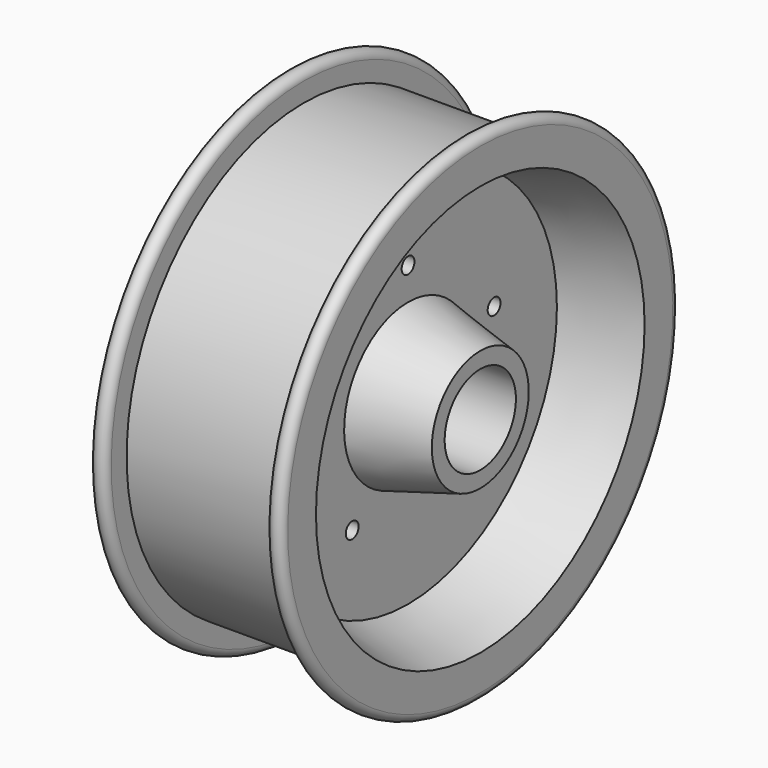
from build123d import *

# Parameters (mm, degrees)
F3_D = 6.35
F4_D = 6.35
F5_D = 6.35
F6_D = 6.35
F7_D = 6.35


with BuildPart() as f1:
    # F0 (on Front) → F1 (revolve)
    with BuildSketch(Plane.XZ):
        with BuildLine():
            Line((9.525, -11.215337), (9.525, 30.773766))
            Line((9.525, 30.773766), (38.1, 38.430415))
            Line((38.1, 38.430415), (38.1, 52.400415))
            ThreePointArc((38.1, 52.400415), (34.925, 55.575415), (31.75, 52.400415))
            Line((31.75, 52.400415), (31.75, 44.780415))
            Line((31.75, 44.780415), (-31.75, 44.780415))
            Line((-31.75, 44.780415), (-31.75, 52.400415))
            ThreePointArc((-31.75, 52.400415), (-34.925, 55.575415), (-38.1, 52.400415))
            Line((-38.1, 52.400415), (-38.1, 38.430415))
            Line((-38.1, 38.430415), (-9.525, 30.773766))
            Line((-9.525, 30.773766), (-9.525, -11.215337))
            Line((-9.525, -11.215337), (-38.1, -18.871985))
            Line((-38.1, -18.871985), (-38.1, -25.221985))
            Line((-38.1, -25.221985), (0, -25.221985))
            Line((0, -25.221985), (38.1, -25.221985))
            Line((38.1, -25.221985), (38.1, -18.871985))
            Line((38.1, -18.871985), (9.525, -11.215337))
        make_face()
    revolve(axis=Axis((44.160847, 0, -42.849585), (1, 0, 0)))

    # F3 (through all)
    with Locations(Plane.YZ.offset(9.525)):
        with Locations((-42.560316, -30.02687)):
            Hole(F3_D / 2)

    # F4 (through all)
    with Locations(Plane.YZ.offset(9.525)):
        with Locations((0, 1.600415)):
            Hole(F4_D / 2)

    # F5 (through all)
    with Locations(Plane.YZ.offset(9.525)):
        with Locations((-27.641779, -79.441398)):
            Hole(F5_D / 2)

    # F6 (through all)
    with Locations(Plane.YZ.offset(9.525)):
        with Locations((27.641779, -79.441398)):
            Hole(F6_D / 2)

    # F7 (through all)
    with Locations(Plane.YZ.offset(9.525)):
        with Locations((42.560316, -30.02687)):
            Hole(F7_D / 2)


solid = f1.part
